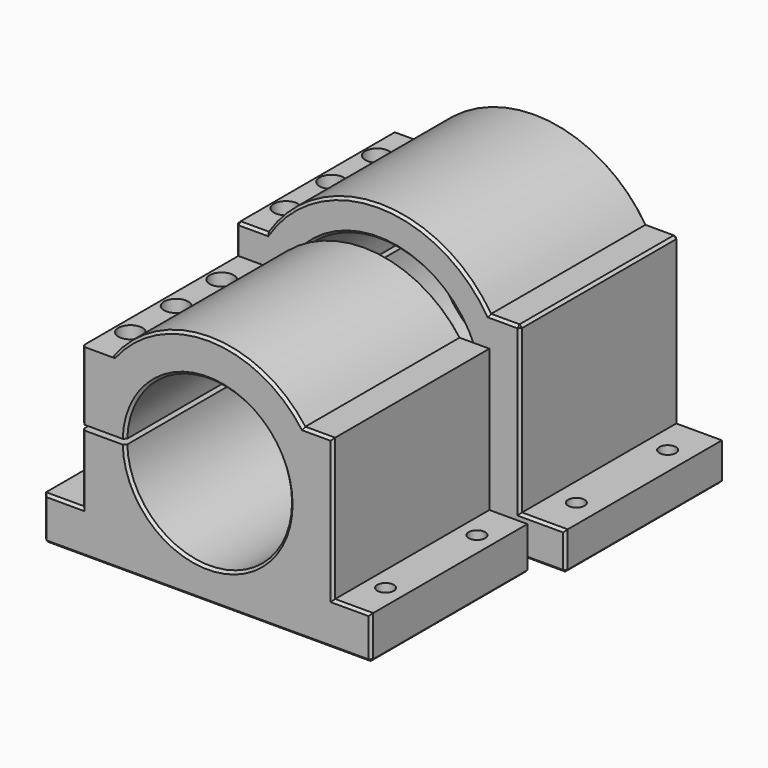
from build123d import *

# Parameters (mm, degrees)
PAD_DEPTH           = 39
HOLE_D              = 5.8
HOLE_DEPTH          = 50
HOLE_CBORE_D        = 9.5
HOLE_CBORE_DEPTH    = 5.4
HOLE_TIPS_R         = 2.9
CHAMFER_SIZE        = 1
SKETCH005_R         = 3.25
POCKET001_DEPTH     = 370.209154
PAD001_DEPTH        = 39
HOLE001_D           = 5.8
HOLE001_DEPTH       = 50
HOLE001_CBORE_D     = 9.5
HOLE001_CBORE_DEPTH = 7
HOLE001_TIPS_R      = 2.9
CHAMFER001_SIZE     = 1
SKETCH004_R         = 3.25
POCKET_DEPTH        = 408.975618


with BuildPart() as f_65mm:
    # Sketch → Pad (new body, symmetric)
    with BuildSketch(Plane.XZ):
        with BuildLine():
            ThreePointArc((-32.484612, -1), (32.5, 0), (-32.484612, 1))
            Line((-49.5, 1), (-32.484612, 1))
            Line((-49.5, 1), (-49.5, 28))
            Line((-49.5, 28), (-37.749172, 28))
            ThreePointArc((37.749172, 28), (0, 47), (-37.749172, 28))
            Line((37.749172, 28), (49.5, 28))
            Line((49.5, 28), (49.5, -28))
            Line((64.5, -28), (49.5, -28))
            Line((64.5, -45), (64.5, -28))
            Line((-64.5, -45), (64.5, -45))
            Line((-64.5, -28), (-64.5, -45))
            Line((-49.5, -28), (-64.5, -28))
            Line((-49.5, -28), (-49.5, -1))
            Line((-32.484612, -1), (-49.5, -1))
        make_face()
    extrude(amount=PAD_DEPTH, both=True)

    # Hole
    with Locations(Plane(origin=(0, 0, 28), x_dir=(-1, 0, 0), z_dir=(0, 0, 1))):
        with Locations((43.624586, 0), (43.624586, 22.5), (43.624586, -22.5)):
            CounterBoreHole(HOLE_D / 2, HOLE_CBORE_D / 2, HOLE_CBORE_DEPTH, depth=HOLE_DEPTH)

    # Hole tips → Hole tip 1 section 0
    with BuildSketch(Plane(origin=(0, 0, -22), x_dir=(-1, 0, 0), z_dir=(0, 0, 1)), mode=Mode.PRIVATE) as hole_tip_1_s0:
        with Locations((43.624586, 0)):
            Circle(HOLE_TIPS_R)
    loft([hole_tip_1_s0.sketch, Vertex(-43.624586, 0, -23.742496)], mode=Mode.SUBTRACT)

    # Hole tips → Hole tip 2 section 0
    with BuildSketch(Plane(origin=(0, 0, -22), x_dir=(-1, 0, 0), z_dir=(0, 0, 1)), mode=Mode.PRIVATE) as hole_tip_2_s0:
        with Locations((43.624586, 22.5)):
            Circle(HOLE_TIPS_R)
    loft([hole_tip_2_s0.sketch, Vertex(-43.624586, -22.5, -23.742496)], mode=Mode.SUBTRACT)

    # Hole tips → Hole tip 3 section 0
    with BuildSketch(Plane(origin=(0, 0, -22), x_dir=(-1, 0, 0), z_dir=(0, 0, 1)), mode=Mode.PRIVATE) as hole_tip_3_s0:
        with Locations((43.624586, -22.5)):
            Circle(HOLE_TIPS_R)
    loft([hole_tip_3_s0.sketch, Vertex(-43.624586, 22.5, -23.742496)], mode=Mode.SUBTRACT)

    # Chamfer
    chamfer_edges = [f_65mm.edges().sort_by_distance(p)[0] for p in [
        (32.5, 39, 0),
        (32.5, -39, 0),
        (0, -39, 47),
        (43.624586, -39, 28),
        (49.5, -39, 0),
        (57, -39, -28),
        (64.5, -39, -36.5),
        (-64.5, -39, -36.5),
        (-57, -39, -28),
        (-49.5, -39, -14.5),
        (-49.5, -39, 14.5),
        (0, -39, -45),
        (0, 39, 47),
        (-43.624586, 39, 28),
        (-49.5, 39, 14.5),
        (-49.5, 39, -14.5),
        (-57, 39, -28),
        (-64.5, 39, -36.5),
        (0, 39, -45),
        (64.5, 39, -36.5),
        (57, 39, -28),
        (49.5, 39, 0),
        (43.624586, 39, 28),
        (-64.5, 0, -45),
        (64.5, 0, -45),
    ]]
    chamfer(chamfer_edges, length=CHAMFER_SIZE)

    # Sketch005 (on Face51 of Chamfer) → Pocket001 (cut, through all)
    with BuildSketch(Plane(origin=(0, 0, -28), x_dir=(-1, 0, 0), z_dir=(0, 0, 1))):
        with Locations((-57, 22.5)):
            Circle(SKETCH005_R)
        with Locations((-57, -22.5)):
            Circle(SKETCH005_R)
    pocket001 = extrude(amount=-POCKET001_DEPTH, mode=Mode.SUBTRACT)

    # Mirrored001: Pocket001 across YZ
    add(pocket001.mirror(Plane.YZ), mode=Mode.SUBTRACT)


with BuildPart() as f_80mm:
    # Sketch002 → Pad001 (new body, symmetric)
    with BuildSketch(Plane.XZ):
        with BuildLine():
            ThreePointArc((-39.987498, -1), (40, 0), (-39.987498, 1))
            Line((-56, 1), (-39.987498, 1))
            Line((-56, 1), (-56, 28))
            Line((-56, 28), (-43.817805, 28))
            ThreePointArc((43.817805, 28), (0, 52), (-43.817805, 28))
            Line((43.817805, 28), (56, 28))
            Line((56, 28), (56, -37))
            Line((74, -37), (56, -37))
            Line((74, -52), (74, -37))
            Line((-74, -52), (74, -52))
            Line((-74, -37), (-74, -52))
            Line((-56, -37), (-74, -37))
            Line((-56, -37), (-56, -1))
            Line((-39.987498, -1), (-56, -1))
        make_face()
    extrude(amount=PAD001_DEPTH, both=True)

    # Hole001
    with Locations(Plane(origin=(0, 0, 28), x_dir=(-1, 0, 0), z_dir=(0, 0, 1))):
        with Locations((49.5, 22.5), (49.5, 0), (49.5, -22.5)):
            CounterBoreHole(HOLE001_D / 2, HOLE001_CBORE_D / 2, HOLE001_CBORE_DEPTH, depth=HOLE001_DEPTH)

    # Hole001 tips → Hole001 tip 1 section 0
    with BuildSketch(Plane(origin=(0, 0, -22), x_dir=(-1, 0, 0), z_dir=(0, 0, 1)), mode=Mode.PRIVATE) as hole001_tip_1_s0:
        with Locations((49.5, 22.5)):
            Circle(HOLE001_TIPS_R)
    loft([hole001_tip_1_s0.sketch, Vertex(-49.5, -22.5, -23.742496)], mode=Mode.SUBTRACT)

    # Hole001 tips → Hole001 tip 2 section 0
    with BuildSketch(Plane(origin=(0, 0, -22), x_dir=(-1, 0, 0), z_dir=(0, 0, 1)), mode=Mode.PRIVATE) as hole001_tip_2_s0:
        with Locations((49.5, 0)):
            Circle(HOLE001_TIPS_R)
    loft([hole001_tip_2_s0.sketch, Vertex(-49.5, 0, -23.742496)], mode=Mode.SUBTRACT)

    # Hole001 tips → Hole001 tip 3 section 0
    with BuildSketch(Plane(origin=(0, 0, -22), x_dir=(-1, 0, 0), z_dir=(0, 0, 1)), mode=Mode.PRIVATE) as hole001_tip_3_s0:
        with Locations((49.5, -22.5)):
            Circle(HOLE001_TIPS_R)
    loft([hole001_tip_3_s0.sketch, Vertex(-49.5, 22.5, -23.742496)], mode=Mode.SUBTRACT)

    # Chamfer001
    chamfer001_edges = [f_80mm.edges().sort_by_distance(p)[0] for p in [
        (40, 39, 0),
        (0, 39, 52),
        (-49.908902, 39, 28),
        (-56, 0, 28),
        (49.908902, 39, 28),
        (56, 0, 28),
        (-56, 39, 14.5),
        (-56, 39, -19),
        (-65, 39, -37),
        (-74, 39, -44.5),
        (0, 39, -52),
        (74, 39, -44.5),
        (65, 39, -37),
        (56, 39, -4.5),
        (40, -39, 0),
        (0, -39, 52),
        (-49.908902, -39, 28),
        (49.908902, -39, 28),
        (56, -39, -4.5),
        (65, -39, -37),
        (74, -39, -44.5),
        (0, -39, -52),
        (-74, -39, -44.5),
        (-65, -39, -37),
        (-56, -39, -19),
        (-56, -39, 14.5),
        (-74, 0, -52),
        (74, 0, -52),
    ]]
    chamfer(chamfer001_edges, length=CHAMFER001_SIZE)

    # Sketch004 (on Face54 of Chamfer001) → Pocket (cut, through all)
    with BuildSketch(Plane(origin=(0, 0, -37), x_dir=(-1, 0, 0), z_dir=(0, 0, 1))):
        with Locations((-65, 22.5)):
            Circle(SKETCH004_R)
        with Locations((-65, -22.5)):
            Circle(SKETCH004_R)
    pocket = extrude(amount=-POCKET_DEPTH, mode=Mode.SUBTRACT)

    # Mirrored: Pocket across YZ
    add(pocket.mirror(Plane.YZ), mode=Mode.SUBTRACT)


with BuildPart() as f_80mm_1:
    # Body001 placement: moved
    add(f_80mm.part.moved(Location((0, 84, 7))))


solid = Compound([f_65mm.part, f_80mm_1.part])
